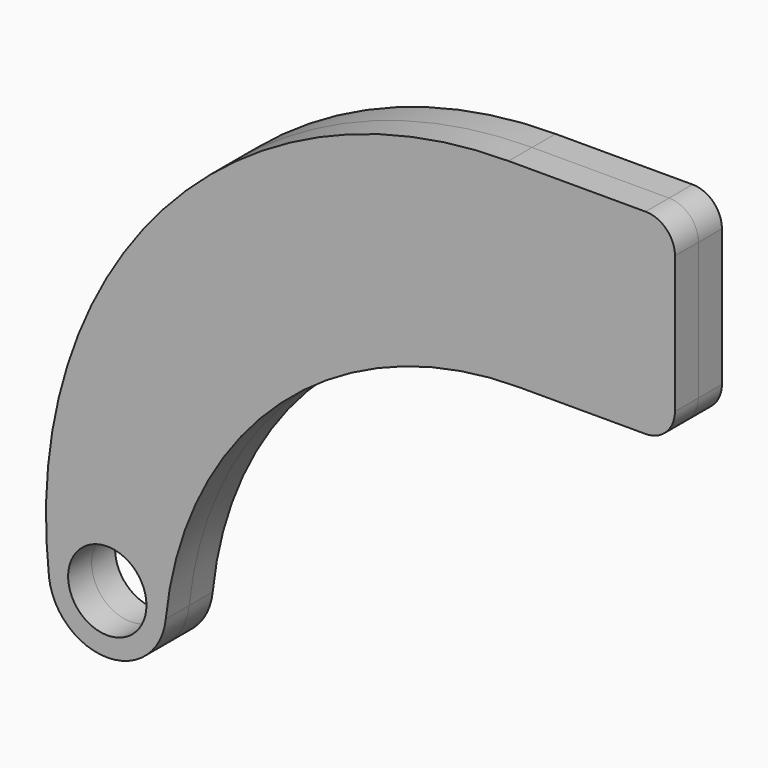
from build123d import *

# Parameters (mm, degrees)
F0_R     = 25.4
F1_DEPTH = 19.05
F2_DEPTH = 19.05


with BuildPart() as f1:
    # F0 (on Front) → F1 (new body)
    with BuildSketch(Plane.XZ):
        with BuildLine():
            Line((-19.05, 0), (-107.95, 0))
            ThreePointArc((-107.95, 0), (-332.035027, -100.447585), (-406.149144, -334.564893))
            ThreePointArc((-406.149144, -334.564893), (-368.016168, -368.298943), (-330.390025, -334.000499))
            ThreePointArc((-330.390025, -334.000499), (-255.867691, -186.430447), (-101.6, -127))
            Line((-101.6, -127), (-19.05, -127))
            ThreePointArc((-19.05, -127), (-5.579616, -121.420384), (0, -107.95))
            Line((0, -107.95), (0, -19.05))
            ThreePointArc((0, -19.05), (-5.579616, -5.579616), (-19.05, 0))
        make_face()
        with Locations((-368.3, -330.2)):
            Circle(F0_R, mode=Mode.SUBTRACT)
        with BuildLine():
            ThreePointArc((-114.3, -25.4), (-110.580256, -16.419744), (-101.6, -12.7))
            Line((-101.6, -12.7), (-25.4, -12.7))
            ThreePointArc((-25.4, -12.7), (-16.419744, -16.419744), (-12.7, -25.4))
            Line((-12.7, -25.4), (-12.7, -101.6))
            ThreePointArc((-12.7, -101.6), (-16.419744, -110.580256), (-25.4, -114.3))
            Line((-25.4, -114.3), (-101.6, -114.3))
            ThreePointArc((-101.6, -114.3), (-110.580256, -110.580256), (-114.3, -101.6))
            Line((-114.3, -101.6), (-114.3, -25.4))
        make_face(mode=Mode.SUBTRACT)
        with BuildLine():
            Line((-25.4, -12.7), (-101.6, -12.7))
            ThreePointArc((-101.6, -12.7), (-110.580256, -16.419744), (-114.3, -25.4))
            Line((-114.3, -25.4), (-114.3, -101.6))
            ThreePointArc((-114.3, -101.6), (-110.580256, -110.580256), (-101.6, -114.3))
            Line((-101.6, -114.3), (-25.4, -114.3))
            ThreePointArc((-25.4, -114.3), (-16.419744, -110.580256), (-12.7, -101.6))
            Line((-12.7, -101.6), (-12.7, -25.4))
            ThreePointArc((-12.7, -25.4), (-16.419744, -16.419744), (-25.4, -12.7))
        make_face()
    extrude(amount=F1_DEPTH)


with BuildPart() as f2:
    # F0 (on Front) → F2 (new body)
    with BuildSketch(Plane.XZ):
        with BuildLine():
            Line((-19.05, 0), (-107.95, 0))
            ThreePointArc((-107.95, 0), (-332.035027, -100.447585), (-406.149144, -334.564893))
            ThreePointArc((-406.149144, -334.564893), (-368.016168, -368.298943), (-330.390025, -334.000499))
            ThreePointArc((-330.390025, -334.000499), (-255.867691, -186.430447), (-101.6, -127))
            Line((-101.6, -127), (-19.05, -127))
            ThreePointArc((-19.05, -127), (-5.579616, -121.420384), (0, -107.95))
            Line((0, -107.95), (0, -19.05))
            ThreePointArc((0, -19.05), (-5.579616, -5.579616), (-19.05, 0))
        make_face()
        with Locations((-368.3, -330.2)):
            Circle(F0_R, mode=Mode.SUBTRACT)
        with BuildLine():
            ThreePointArc((-114.3, -25.4), (-110.580256, -16.419744), (-101.6, -12.7))
            Line((-101.6, -12.7), (-25.4, -12.7))
            ThreePointArc((-25.4, -12.7), (-16.419744, -16.419744), (-12.7, -25.4))
            Line((-12.7, -25.4), (-12.7, -101.6))
            ThreePointArc((-12.7, -101.6), (-16.419744, -110.580256), (-25.4, -114.3))
            Line((-25.4, -114.3), (-101.6, -114.3))
            ThreePointArc((-101.6, -114.3), (-110.580256, -110.580256), (-114.3, -101.6))
            Line((-114.3, -101.6), (-114.3, -25.4))
        make_face(mode=Mode.SUBTRACT)
    extrude(amount=-F2_DEPTH)


solid = Compound([f1.part, f2.part])
